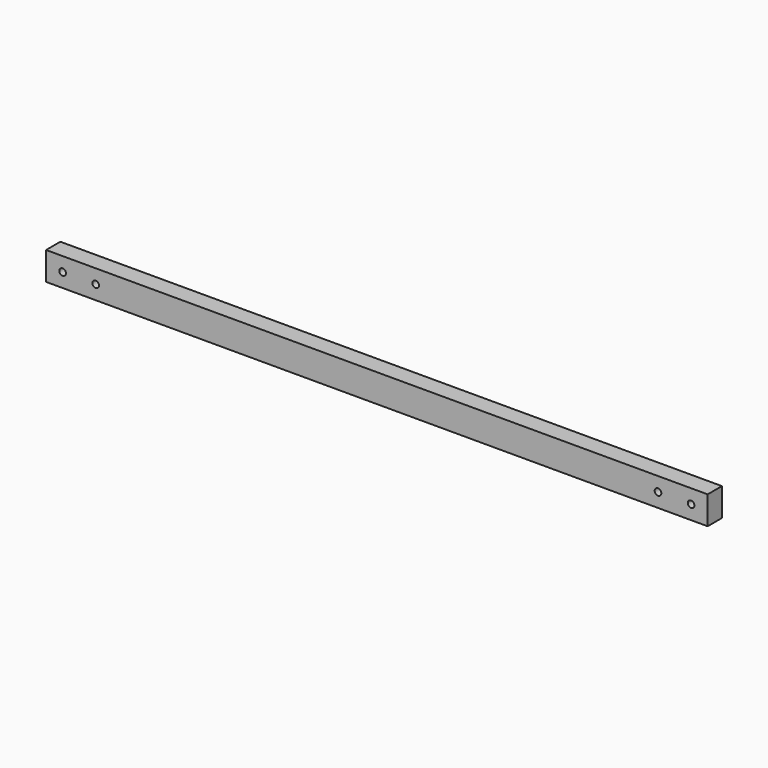
from build123d import *

# Parameters (mm, degrees)
F0_W     = 400
F0_H     = 17
F1_DEPTH = 10.8
F2_D     = 4


with BuildPart() as f1:
    # F0 (on Front) → F1 (new body)
    with BuildSketch(Plane.XZ):
        Rectangle(F0_W, F0_H)
    extrude(amount=F1_DEPTH)

    # F2 (through all)
    with Locations(Plane(origin=(0, 0, 0), x_dir=(1, 0, 0), z_dir=(0, 1, 0))):
        with Locations((-190, 0), (-170, 0), (170, 0), (190, 0)):
            Hole(F2_D / 2)


solid = f1.part
